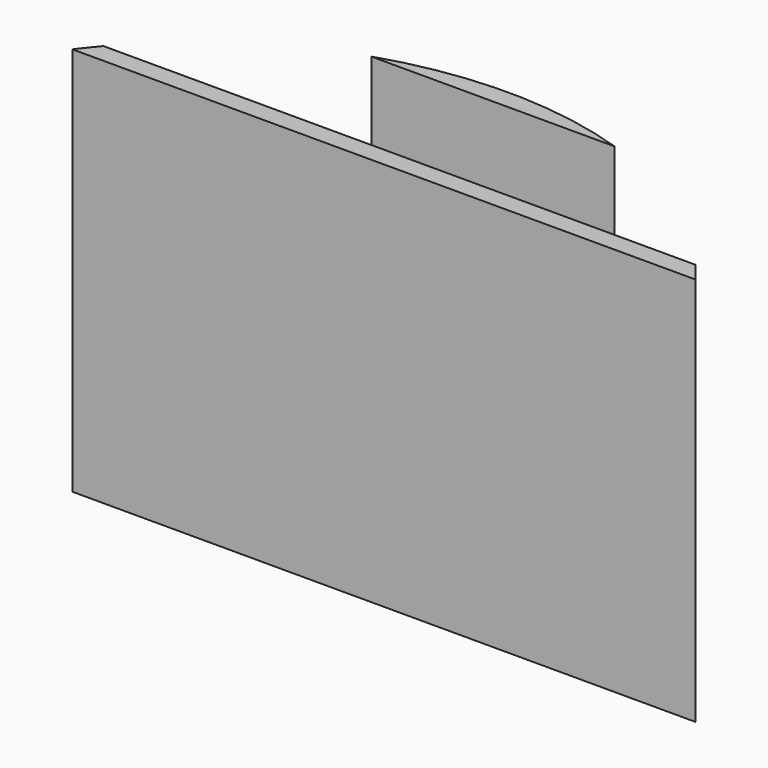
from build123d import *

# Parameters (mm, degrees)
F1_DEPTH = 63.5
F2_W     = 19.05
F2_H     = 25.4
F3_DEPTH = 50.8
F4_R     = 2.54


with BuildPart() as f1:
    # F0 (on Top) → F1 (new body)
    with BuildSketch(Plane.XY):
        with BuildLine():
            Line((-50.8, 0), (50.8, 0))
            ThreePointArc((50.8, 0), (0, 25.4), (-50.8, 0))
        make_face()
    extrude(amount=F1_DEPTH)

    # F2 (on Right) → F3 (cut, symmetric)
    with BuildSketch(Plane.YZ):
        with Locations((12.7, 50.8)):
            Rectangle(F2_W, F2_H)
    extrude(amount=F3_DEPTH, both=True, mode=Mode.SUBTRACT)

    # F4
    f4_edges = [f1.edges().sort_by_distance(p)[0] for p in [
        (0, 3.175, 38.1),
        (0, 22.225, 38.1),
    ]]
    fillet(f4_edges, radius=F4_R)


solid = f1.part
